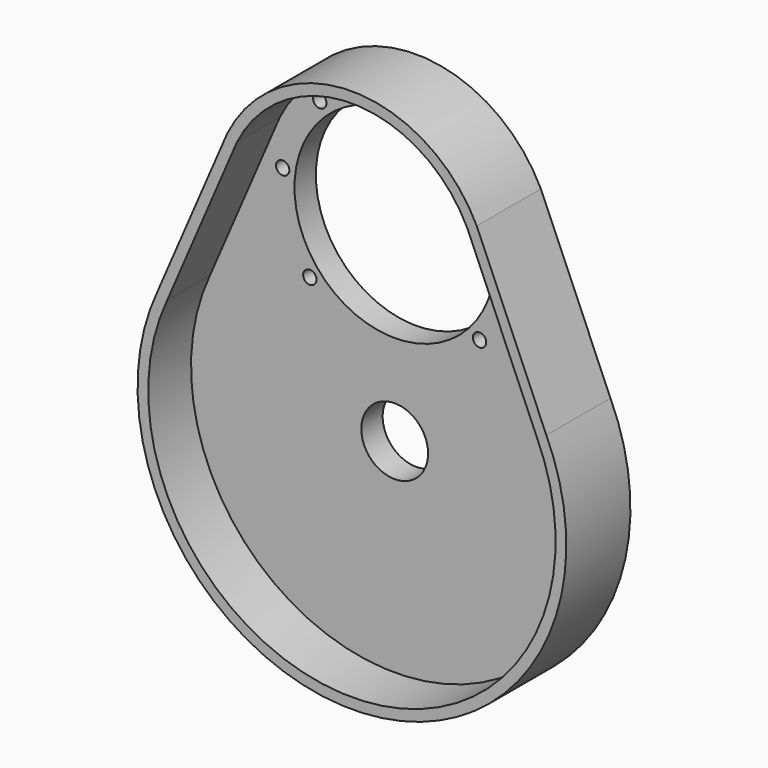
from build123d import *

# Parameters (mm, degrees)
F0_R     = 25
F0_R_2   = 5
F0_R_3   = 75
F1_DEPTH = 20
F2_DEPTH = 60


with BuildPart() as f1:
    # F0 (on Front) → F1 (new body)
    with BuildSketch(Plane.XZ):
        with BuildLine():
            ThreePointArc((86.129578, 185.121394), (0, 238.845987), (-86.129578, 185.121394))
            Line((-86.129578, 185.121394), (-138.221827, 64.268738))
            ThreePointArc((-138.221827, 64.268738), (0, -152.432753), (138.221827, 64.268738))
            Line((138.221827, 64.268738), (86.129578, 185.121394))
        make_face()
        Circle(F0_R, mode=Mode.SUBTRACT)
        with Locations((-63.50091, 87.336254)):
            Circle(F0_R_2, mode=Mode.SUBTRACT)
        with Locations((-83.826575, 152.82513)):
            Circle(F0_R_2, mode=Mode.SUBTRACT)
        with Locations((-56.082384, 206.025317)):
            Circle(F0_R_2, mode=Mode.SUBTRACT)
        with Locations((63.50091, 87.336254)):
            Circle(F0_R_2, mode=Mode.SUBTRACT)
        with Locations((0, 142.943576)):
            Circle(F0_R_3, mode=Mode.SUBTRACT)
        with Locations((0, 227.350565)):
            Circle(F0_R_2, mode=Mode.SUBTRACT)
        with Locations((56.082384, 206.025317)):
            Circle(F0_R_2, mode=Mode.SUBTRACT)
        with Locations((83.826575, 152.82513)):
            Circle(F0_R_2, mode=Mode.SUBTRACT)
    extrude(amount=F1_DEPTH)

    # F0 (on Front) → F2 (join)
    with BuildSketch(Plane.XZ):
        with BuildLine():
            Line((145.524237, 67.537877), (93.401044, 188.462319))
            ThreePointArc((93.401044, 188.462319), (0, 246.845987), (-93.401044, 188.462319))
            Line((-93.401044, 188.462319), (-145.524237, 67.537877))
            ThreePointArc((-145.524237, 67.537877), (0, -160.432753), (145.524237, 67.537877))
        make_face()
        with BuildLine():
            Line((-138.221827, 64.268738), (-86.129578, 185.121394))
            ThreePointArc((-86.129578, 185.121394), (0, 238.845987), (86.129578, 185.121394))
            Line((86.129578, 185.121394), (138.221827, 64.268738))
            ThreePointArc((138.221827, 64.268738), (0, -152.432753), (-138.221827, 64.268738))
        make_face(mode=Mode.SUBTRACT)
    extrude(amount=F2_DEPTH)


solid = f1.part
